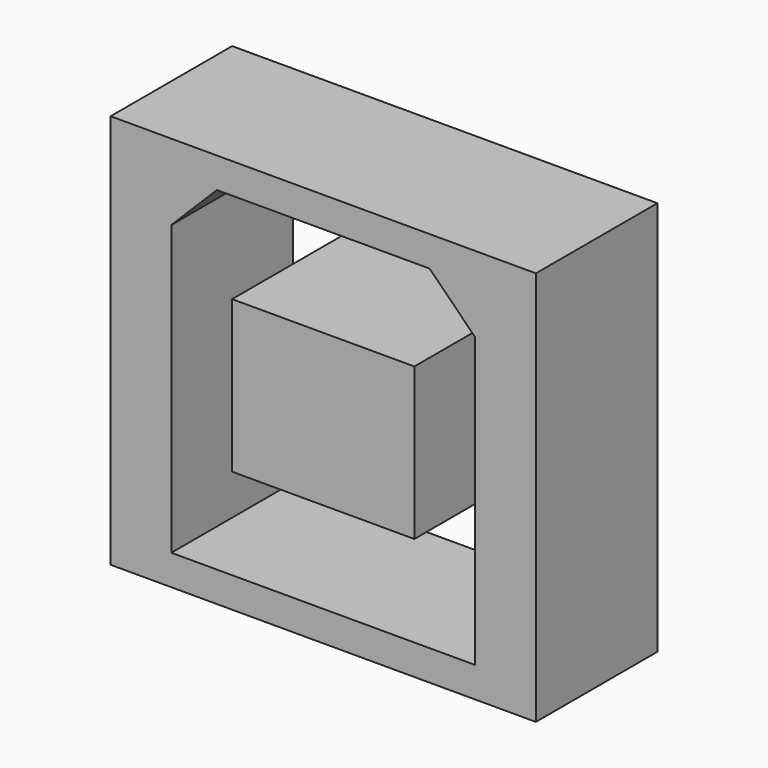
from build123d import *

# Parameters (mm, degrees)
F0_W     = 14
F0_H     = 13
F1_DEPTH = 2.5
F2_W     = 10
F2_H     = 11
F2_W_2   = 6
F2_H_2   = 5
F3_DEPTH = 5.001
F4_SIZE  = 1.5


with BuildPart() as f1:
    # F0 (on Front) → F1 (new body, symmetric)
    with BuildSketch(Plane.XZ):
        Rectangle(F0_W, F0_H)
    extrude(amount=F1_DEPTH, both=True)

    # F2 (on face) → F3 (cut, through all)
    with BuildSketch(Plane.XZ.offset(2.5)):
        Rectangle(F2_W, F2_H)
        Rectangle(F2_W_2, F2_H_2, mode=Mode.SUBTRACT)
    extrude(amount=-F3_DEPTH, mode=Mode.SUBTRACT)

    # F4
    f4_edges = [f1.edges().sort_by_distance(p)[0] for p in [
        (-5, 0, 5.5),
        (5, 0, 5.5),
    ]]
    chamfer(f4_edges, length=F4_SIZE)


solid = f1.part
